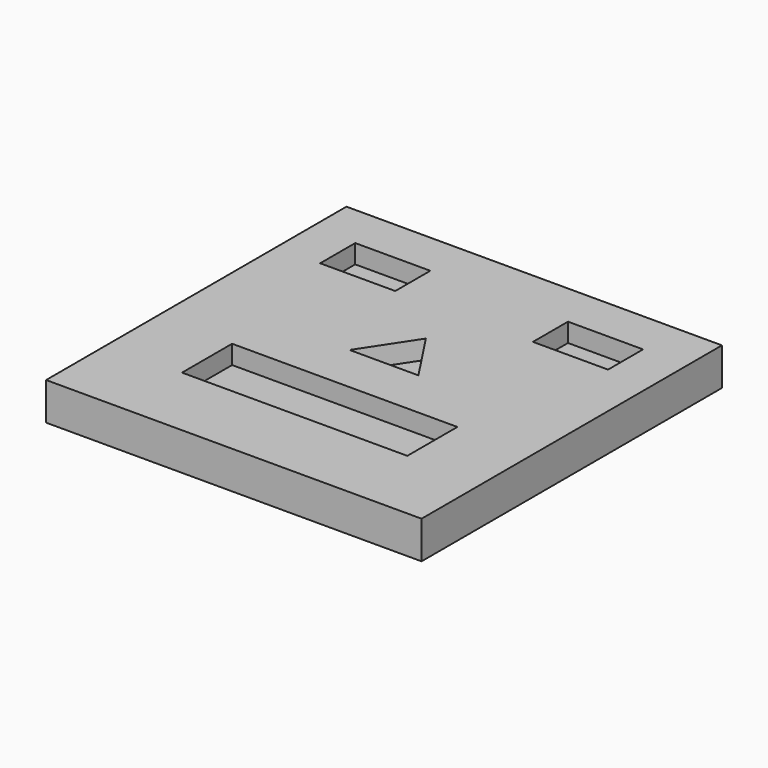
from build123d import *

# Parameters (mm, degrees)
F0_W     = 60
F0_H     = 60
F1_DEPTH = 6
F2_W     = 12
F2_H     = 7
F2_W_2   = 36
F2_H_2   = 10
F3_DEPTH = 3
F4_W     = 15.5
F4_H     = 13.5
F5_DEPTH = 1.8


with BuildPart() as f1:
    # F0 (on Top) → F1 (new body)
    with BuildSketch(Plane.XY):
        Rectangle(F0_W, F0_H)
    extrude(amount=F1_DEPTH)

    # F2 (on face) → F3 (cut)
    with BuildSketch(Plane.XY.offset(6)):
        with Locations((-17, 19.5)):
            Rectangle(F2_W, F2_H)
        with Locations((17, 19.5)):
            Rectangle(F2_W, F2_H)
        with Locations((0, -12.842694)):
            Rectangle(F2_W_2, F2_H_2)
        Polygon((5.5, 0), (0, 8.351647), (-5.5, 0), align=None)
    extrude(amount=-F3_DEPTH, mode=Mode.SUBTRACT)

    # F4 (on face) → F5 (cut)
    with BuildSketch(Plane(origin=(0, 0, 0), x_dir=(1, 0, 0), z_dir=(0, 0, -1))):
        Rectangle(F4_W, F4_H)
    extrude(amount=-F5_DEPTH, mode=Mode.SUBTRACT)


solid = f1.part
